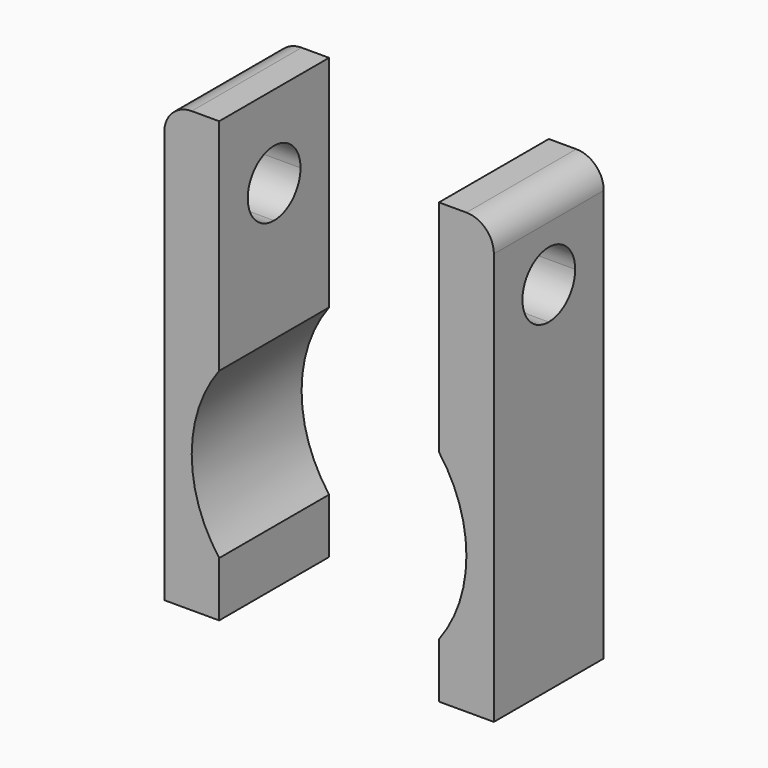
from build123d import *

# Parameters (mm, degrees)
F1_DEPTH      = 25
F3_DEPTH      = 50
F3_DEPTH_BACK = 30
F4_DEPTH      = 30
F5_R          = 5


with BuildPart() as f1:
    # F0 (on Front) → F1 (new body)
    with BuildSketch(Plane.XZ):
        with BuildLine():
            Line((-30, 40), (-30, -40))
            Line((-30, -40), (-20, -40))
            Line((-20, -40), (-20, -30))
            ThreePointArc((-20, -30), (-25, -15), (-20, 0))
            Line((-20, 0), (-20, 40))
            Line((-20, 40), (-30, 40))
        make_face()
        with BuildLine():
            Line((20, -40), (30, -40))
            Line((30, -40), (30, 40))
            Line((30, 40), (20, 40))
            Line((20, 40), (20, 0))
            ThreePointArc((20, 0), (25, -15), (20, -30))
            Line((20, -30), (20, -40))
        make_face()
    extrude(amount=F1_DEPTH)

    # F2 (on Right) → F3 (cut, two sides)
    with BuildSketch(Plane.YZ) as f3_sk:
        with BuildLine():
            ThreePointArc((-12.5, 19), (-8.257359, 20.757359), (-6.5, 25))
            ThreePointArc((-6.5, 25), (-16.742641, 29.242641), (-12.5, 19))
        make_face()
    extrude(amount=F3_DEPTH, mode=Mode.SUBTRACT)
    extrude(f3_sk.sketch, amount=-F3_DEPTH_BACK, mode=Mode.SUBTRACT)

    # F2 (on Right) → F4 (cut)
    with BuildSketch(Plane.YZ):
        with BuildLine():
            ThreePointArc((-12.5, 19), (-8.257359, 20.757359), (-6.5, 25))
            ThreePointArc((-6.5, 25), (-16.742641, 29.242641), (-12.5, 19))
        make_face()
    extrude(amount=-F4_DEPTH, mode=Mode.SUBTRACT)

    # F5
    f5_edges = [f1.edges().sort_by_distance(p)[0] for p in [
        (30, -12.5, 40),
        (-30, -12.5, 40),
    ]]
    fillet(f5_edges, radius=F5_R)


solid = f1.part
